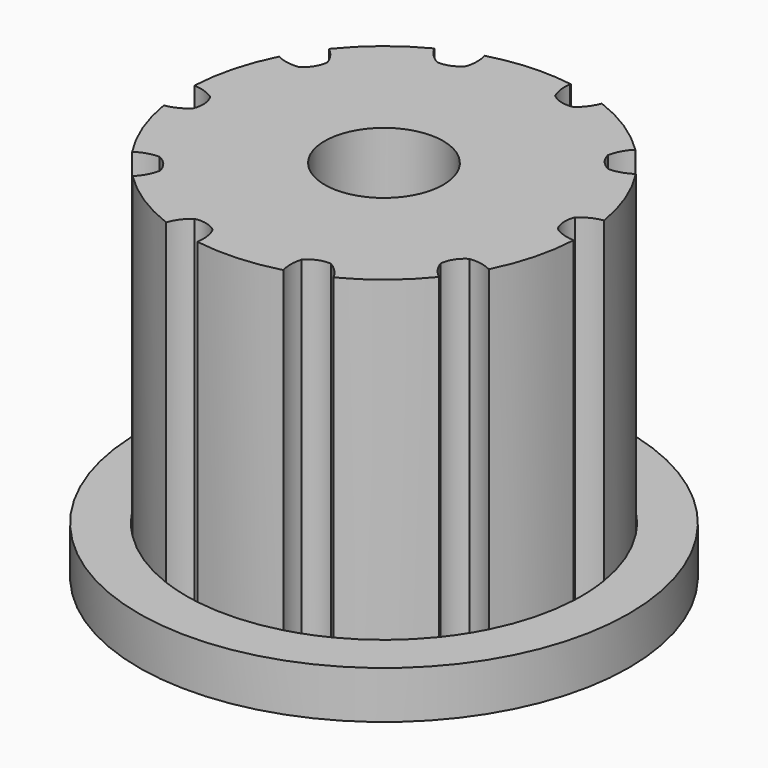
from build123d import *

# Parameters (mm, degrees)
F0_R     = 19.635790459
F0_R_2   = 12.015790459
F0_R_3   = 4.75
F1_DEPTH = 3.81
F2_DEPTH = 29.21


with BuildPart() as f1:
    # F0 (on Top) → F1 (new body)
    with BuildSketch(Plane.XY):
        with Locations((-16.7585039379, -26.0932887787)):
            Circle(F0_R)
        with BuildLine():
            ThreePointArc((-29.0954614281, -16.180916533), (-26.7569848864, -13.826014331), (-23.9788151651, -12.0105777671))
            ThreePointArc((-23.9788151651, -12.0105777671), (-22.476828118, -11.336716947), (-20.9129659851, -10.8225295065))
            ThreePointArc((-20.9129659851, -10.8225295065), (-17.6158542996, -10.2907385412), (-14.2805615256, -10.4626955381))
            ThreePointArc((-14.2805615256, -10.4626955381), (-12.6906360083, -10.7992345693), (-11.1436072451, -11.2970534879))
            ThreePointArc((-11.1436072451, -11.2970534879), (-8.1813331682, -12.7933720406), (-5.5962487371, -14.874567707))
            ThreePointArc((-5.5962487371, -14.874567707), (-4.4912294901, -16.0948078302), (-3.5189481983, -17.4232364448))
            ThreePointArc((-3.5189481983, -17.4232364448), (-2.0019321061, -20.3749645986), (-1.1338509893, -23.5781617659))
            ThreePointArc((-1.1338509893, -23.5781617659), (-0.9830779973, -24.8317103835), (-0.9327134788, -26.0932887787))
            ThreePointArc((-0.9327134788, -26.0932887787), (-0.9373731571, -26.4772998105), (-0.9513494481, -26.8610847091))
            ThreePointArc((-0.9513494481, -26.8610847091), (-1.4590399264, -30.1407626347), (-2.6395396055, -33.2424488576))
            ThreePointArc((-2.6395396055, -33.2424488576), (-3.4585871997, -34.6704595484), (-4.4215464476, -36.0056610244))
            ThreePointArc((-4.4215464476, -36.0056610244), (-6.7600229894, -38.3605632264), (-9.5381927107, -40.1759997903))
            ThreePointArc((-9.5381927107, -40.1759997903), (-11.0401797578, -40.8498606104), (-12.6040418906, -41.364048051))
            ThreePointArc((-12.6040418906, -41.364048051), (-15.8771225924, -41.8945169138), (-19.1888940058, -41.7313464513))
            ThreePointArc((-19.1888940058, -41.7313464513), (-20.8031084916, -41.3935115763), (-22.3734006307, -40.8895240696))
            ThreePointArc((-22.3734006307, -40.8895240696), (-25.3356747075, -39.3932055169), (-27.9207591387, -37.3120098505))
            ThreePointArc((-27.9207591387, -37.3120098505), (-29.0257783856, -36.0917697272), (-29.9980596774, -34.7633411126))
            ThreePointArc((-29.9980596774, -34.7633411126), (-31.5162594242, -31.8085575091), (-32.3841970537, -28.6019454517))
            ThreePointArc((-32.3841970537, -28.6019454517), (-32.5600786241, -26.968435103), (-32.5656584276, -25.3254928483))
            ThreePointArc((-32.5656584276, -25.3254928483), (-32.0579679493, -22.0458149227), (-30.8774682703, -18.9441286998))
            ThreePointArc((-30.8774682703, -18.9441286998), (-30.058420676, -17.516118009), (-29.0954614281, -16.180916533))
        make_face(mode=Mode.SUBTRACT)
        with BuildLine():
            ThreePointArc((-22.6921084548, -13.3599276036), (-23.4218873645, -12.7949300931), (-23.9606425579, -12.0455688415))
            Line((-23.9606425579, -12.0455688415), (-23.9788151651, -12.0105777671))
            ThreePointArc((-23.9788151651, -12.0105777671), (-26.7569848864, -13.826014331), (-29.0954614281, -16.180916533))
            ThreePointArc((-29.0954614281, -16.180916533), (-28.4541428865, -16.8446257856), (-28.0282875658, -17.6634338766))
            ThreePointArc((-28.0282875658, -17.6634338766), (-28.345540736, -18.5909782757), (-29.0433727408, -19.2794684205))
            ThreePointArc((-29.0433727408, -19.2794684205), (-29.9658734851, -19.2513291133), (-30.8421990848, -18.9617554831))
            Line((-30.8421990848, -18.9617554831), (-30.8774682703, -18.9441286998))
            ThreePointArc((-30.8774682703, -18.9441286998), (-32.0579679493, -22.0458149227), (-32.5656584276, -25.3254928483))
            ThreePointArc((-32.5656584276, -25.3254928483), (-31.6567023181, -25.4854873322), (-30.8308948063, -25.8976055158))
            ThreePointArc((-30.8308948063, -25.8976055158), (-30.5423610938, -26.8344814324), (-30.7022346915, -27.801657021))
            ThreePointArc((-30.7022346915, -27.801657021), (-31.4650933407, -28.321124176), (-32.3442627527, -28.6019454517))
            Line((-32.3442627527, -28.6019454517), (-32.3841970537, -28.6019454517))
            ThreePointArc((-32.3841970537, -28.6019454517), (-31.5162594242, -31.8085575091), (-29.9980596774, -34.7633411126))
            ThreePointArc((-29.9980596774, -34.7633411126), (-29.1686563396, -34.3585083729), (-28.2583270379, -34.2065215104))
            ThreePointArc((-28.2583270379, -34.2065215104), (-27.4742165141, -34.7948741876), (-27.0350654242, -35.6713070183))
            ThreePointArc((-27.0350654242, -35.6713070183), (-27.346895903, -36.5399618383), (-27.8930962938, -37.2839138374))
            Line((-27.8930962938, -37.2839138374), (-27.9207591387, -37.3120098505))
            ThreePointArc((-27.9207591387, -37.3120098505), (-25.3356747075, -39.3932055169), (-22.3734006307, -40.8895240696))
            ThreePointArc((-22.3734006307, -40.8895240696), (-21.9403539493, -40.0744964531), (-21.29321771, -39.4164583602))
            ThreePointArc((-21.29321771, -39.4164583602), (-20.3130339439, -39.4315570726), (-19.4425989567, -39.8824795929))
            ThreePointArc((-19.4425989567, -39.8824795929), (-19.1842926208, -40.7685254612), (-19.1888940058, -41.691443806))
            Line((-19.1888940058, -41.691443806), (-19.1888940058, -41.7313464513))
            ThreePointArc((-19.1888940058, -41.7313464513), (-15.8771225924, -41.8945169138), (-12.6040418906, -41.364048051))
            ThreePointArc((-12.6040418906, -41.364048051), (-12.7327609791, -40.4501384055), (-12.5960018504, -39.5373972677))
            ThreePointArc((-12.5960018504, -39.5373972677), (-11.7941417255, -38.9734748204), (-10.824899421, -38.8266499539))
            ThreePointArc((-10.824899421, -38.8266499539), (-10.0951205112, -39.3916474643), (-9.5563653178, -40.1410087159))
            Line((-9.5563653178, -40.1410087159), (-9.5381927107, -40.1759997903))
            ThreePointArc((-9.5381927107, -40.1759997903), (-6.7600229894, -38.3605632264), (-4.4215464476, -36.0056610244))
            ThreePointArc((-4.4215464476, -36.0056610244), (-5.0628649893, -35.3419517718), (-5.4887203099, -34.5231436809))
            ThreePointArc((-5.4887203099, -34.5231436809), (-5.1714671398, -33.5955992817), (-4.4736351349, -32.907109137))
            ThreePointArc((-4.4736351349, -32.907109137), (-3.5511343906, -32.9352484441), (-2.674808791, -33.2248220743))
            Line((-2.674808791, -33.2248220743), (-2.6395396055, -33.2424488576))
            ThreePointArc((-2.6395396055, -33.2424488576), (-1.4590399264, -30.1407626347), (-0.9513494481, -26.8610847091))
            ThreePointArc((-0.9513494481, -26.8610847091), (-1.8603055576, -26.7010902252), (-2.6861130695, -26.2889720416))
            ThreePointArc((-2.6861130695, -26.2889720416), (-2.974646782, -25.352096125), (-2.8147731843, -24.3849205364))
            ThreePointArc((-2.8147731843, -24.3849205364), (-2.051914535, -23.8654533814), (-1.172745123, -23.5846321057))
            Line((-1.172745123, -23.5846321057), (-1.1338509893, -23.5781617659))
            ThreePointArc((-1.1338509893, -23.5781617659), (-2.0019321061, -20.3749645986), (-3.5189481983, -17.4232364448))
            ThreePointArc((-3.5189481983, -17.4232364448), (-4.3483515361, -17.8280691845), (-5.2586808378, -17.980056047))
            ThreePointArc((-5.2586808378, -17.980056047), (-6.0427913617, -17.3917033698), (-6.4819424515, -16.5152705392))
            ThreePointArc((-6.4819424515, -16.5152705392), (-6.1701119728, -15.6466157191), (-5.6239115819, -14.90266372))
            Line((-5.6239115819, -14.90266372), (-5.5962487371, -14.874567707))
            ThreePointArc((-5.5962487371, -14.874567707), (-8.1813331682, -12.7933720406), (-11.1436072451, -11.2970534879))
            ThreePointArc((-11.1436072451, -11.2970534879), (-11.5766539265, -12.1120811043), (-12.2237901657, -12.7701191972))
            ThreePointArc((-12.2237901657, -12.7701191972), (-13.2039739318, -12.7550204848), (-14.0744089191, -12.3040979645))
            ThreePointArc((-14.0744089191, -12.3040979645), (-14.332715255, -11.4180520962), (-14.3281138699, -10.4951337515))
            Line((-14.3281138699, -10.4951337515), (-14.2805615256, -10.4626955381))
            ThreePointArc((-14.2805615256, -10.4626955381), (-17.6158542996, -10.2907385412), (-20.9129659851, -10.8225295065))
            ThreePointArc((-20.9129659851, -10.8225295065), (-20.7842468966, -11.736439152), (-20.9210060254, -12.6491802897))
            ThreePointArc((-20.9210060254, -12.6491802897), (-21.2891829215, -12.9777143323), (-21.7228661502, -13.213102737))
            ThreePointArc((-21.7228661502, -13.213102737), (-22.1989595709, -13.3428097096), (-22.6921084548, -13.3599276036))
        make_face()
        with Locations((-16.7585039379, -26.0932887787)):
            Circle(F0_R_2, mode=Mode.SUBTRACT)
        with Locations((-16.7585039379, -26.0932887787)):
            Circle(F0_R_2)
        with Locations((-16.7585039379, -26.0932887787)):
            Circle(F0_R_3, mode=Mode.SUBTRACT)
    extrude(amount=F1_DEPTH)

    # F0 (on Top) → F2 (join)
    with BuildSketch(Plane.XY):
        with BuildLine():
            ThreePointArc((-22.6921084548, -13.3599276036), (-23.4218873645, -12.7949300931), (-23.9606425579, -12.0455688415))
            Line((-23.9606425579, -12.0455688415), (-23.9788151651, -12.0105777671))
            ThreePointArc((-23.9788151651, -12.0105777671), (-26.7569848864, -13.826014331), (-29.0954614281, -16.180916533))
            ThreePointArc((-29.0954614281, -16.180916533), (-28.4541428865, -16.8446257856), (-28.0282875658, -17.6634338766))
            ThreePointArc((-28.0282875658, -17.6634338766), (-28.345540736, -18.5909782757), (-29.0433727408, -19.2794684205))
            ThreePointArc((-29.0433727408, -19.2794684205), (-29.9658734851, -19.2513291133), (-30.8421990848, -18.9617554831))
            Line((-30.8421990848, -18.9617554831), (-30.8774682703, -18.9441286998))
            ThreePointArc((-30.8774682703, -18.9441286998), (-32.0579679493, -22.0458149227), (-32.5656584276, -25.3254928483))
            ThreePointArc((-32.5656584276, -25.3254928483), (-31.6567023181, -25.4854873322), (-30.8308948063, -25.8976055158))
            ThreePointArc((-30.8308948063, -25.8976055158), (-30.5423610938, -26.8344814324), (-30.7022346915, -27.801657021))
            ThreePointArc((-30.7022346915, -27.801657021), (-31.4650933407, -28.321124176), (-32.3442627527, -28.6019454517))
            Line((-32.3442627527, -28.6019454517), (-32.3841970537, -28.6019454517))
            ThreePointArc((-32.3841970537, -28.6019454517), (-31.5162594242, -31.8085575091), (-29.9980596774, -34.7633411126))
            ThreePointArc((-29.9980596774, -34.7633411126), (-29.1686563396, -34.3585083729), (-28.2583270379, -34.2065215104))
            ThreePointArc((-28.2583270379, -34.2065215104), (-27.4742165141, -34.7948741876), (-27.0350654242, -35.6713070183))
            ThreePointArc((-27.0350654242, -35.6713070183), (-27.346895903, -36.5399618383), (-27.8930962938, -37.2839138374))
            Line((-27.8930962938, -37.2839138374), (-27.9207591387, -37.3120098505))
            ThreePointArc((-27.9207591387, -37.3120098505), (-25.3356747075, -39.3932055169), (-22.3734006307, -40.8895240696))
            ThreePointArc((-22.3734006307, -40.8895240696), (-21.9403539493, -40.0744964531), (-21.29321771, -39.4164583602))
            ThreePointArc((-21.29321771, -39.4164583602), (-20.3130339439, -39.4315570726), (-19.4425989567, -39.8824795929))
            ThreePointArc((-19.4425989567, -39.8824795929), (-19.1842926208, -40.7685254612), (-19.1888940058, -41.691443806))
            Line((-19.1888940058, -41.691443806), (-19.1888940058, -41.7313464513))
            ThreePointArc((-19.1888940058, -41.7313464513), (-15.8771225924, -41.8945169138), (-12.6040418906, -41.364048051))
            ThreePointArc((-12.6040418906, -41.364048051), (-12.7327609791, -40.4501384055), (-12.5960018504, -39.5373972677))
            ThreePointArc((-12.5960018504, -39.5373972677), (-11.7941417255, -38.9734748204), (-10.824899421, -38.8266499539))
            ThreePointArc((-10.824899421, -38.8266499539), (-10.0951205112, -39.3916474643), (-9.5563653178, -40.1410087159))
            Line((-9.5563653178, -40.1410087159), (-9.5381927107, -40.1759997903))
            ThreePointArc((-9.5381927107, -40.1759997903), (-6.7600229894, -38.3605632264), (-4.4215464476, -36.0056610244))
            ThreePointArc((-4.4215464476, -36.0056610244), (-5.0628649893, -35.3419517718), (-5.4887203099, -34.5231436809))
            ThreePointArc((-5.4887203099, -34.5231436809), (-5.1714671398, -33.5955992817), (-4.4736351349, -32.907109137))
            ThreePointArc((-4.4736351349, -32.907109137), (-3.5511343906, -32.9352484441), (-2.674808791, -33.2248220743))
            Line((-2.674808791, -33.2248220743), (-2.6395396055, -33.2424488576))
            ThreePointArc((-2.6395396055, -33.2424488576), (-1.4590399264, -30.1407626347), (-0.9513494481, -26.8610847091))
            ThreePointArc((-0.9513494481, -26.8610847091), (-1.8603055576, -26.7010902252), (-2.6861130695, -26.2889720416))
            ThreePointArc((-2.6861130695, -26.2889720416), (-2.974646782, -25.352096125), (-2.8147731843, -24.3849205364))
            ThreePointArc((-2.8147731843, -24.3849205364), (-2.051914535, -23.8654533814), (-1.172745123, -23.5846321057))
            Line((-1.172745123, -23.5846321057), (-1.1338509893, -23.5781617659))
            ThreePointArc((-1.1338509893, -23.5781617659), (-2.0019321061, -20.3749645986), (-3.5189481983, -17.4232364448))
            ThreePointArc((-3.5189481983, -17.4232364448), (-4.3483515361, -17.8280691845), (-5.2586808378, -17.980056047))
            ThreePointArc((-5.2586808378, -17.980056047), (-6.0427913617, -17.3917033698), (-6.4819424515, -16.5152705392))
            ThreePointArc((-6.4819424515, -16.5152705392), (-6.1701119728, -15.6466157191), (-5.6239115819, -14.90266372))
            Line((-5.6239115819, -14.90266372), (-5.5962487371, -14.874567707))
            ThreePointArc((-5.5962487371, -14.874567707), (-8.1813331682, -12.7933720406), (-11.1436072451, -11.2970534879))
            ThreePointArc((-11.1436072451, -11.2970534879), (-11.5766539265, -12.1120811043), (-12.2237901657, -12.7701191972))
            ThreePointArc((-12.2237901657, -12.7701191972), (-13.2039739318, -12.7550204848), (-14.0744089191, -12.3040979645))
            ThreePointArc((-14.0744089191, -12.3040979645), (-14.332715255, -11.4180520962), (-14.3281138699, -10.4951337515))
            Line((-14.3281138699, -10.4951337515), (-14.2805615256, -10.4626955381))
            ThreePointArc((-14.2805615256, -10.4626955381), (-17.6158542996, -10.2907385412), (-20.9129659851, -10.8225295065))
            ThreePointArc((-20.9129659851, -10.8225295065), (-20.7842468966, -11.736439152), (-20.9210060254, -12.6491802897))
            ThreePointArc((-20.9210060254, -12.6491802897), (-21.2891829215, -12.9777143323), (-21.7228661502, -13.213102737))
            ThreePointArc((-21.7228661502, -13.213102737), (-22.1989595709, -13.3428097096), (-22.6921084548, -13.3599276036))
        make_face()
        with Locations((-16.7585039379, -26.0932887787)):
            Circle(F0_R_2, mode=Mode.SUBTRACT)
        with Locations((-16.7585039379, -26.0932887787)):
            Circle(F0_R_2)
        with Locations((-16.7585039379, -26.0932887787)):
            Circle(F0_R_3, mode=Mode.SUBTRACT)
    extrude(amount=F2_DEPTH)


solid = f1.part
